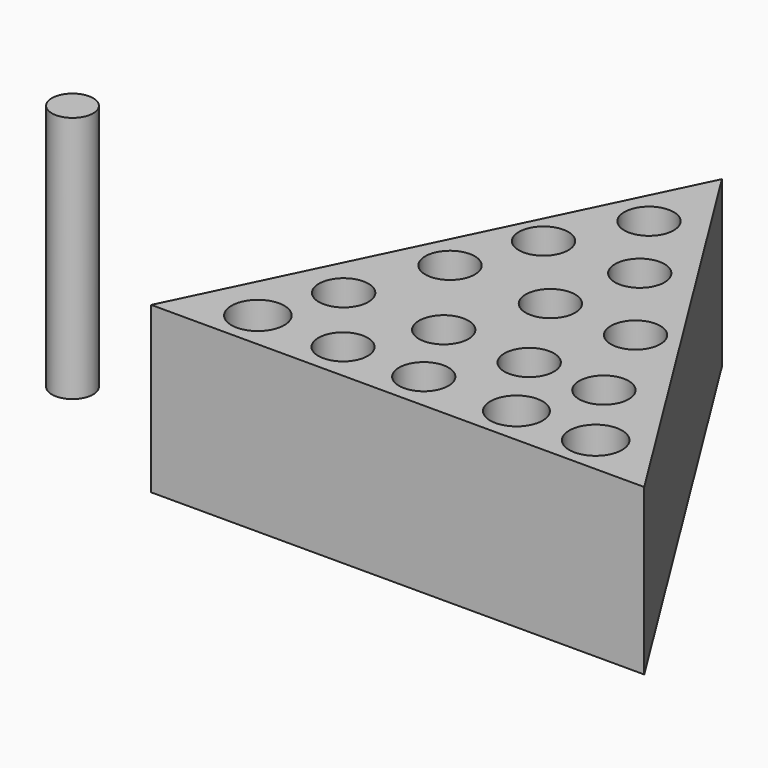
from build123d import *

# Parameters (mm, degrees)
F1_DEPTH = 25.4
F2_R     = 4.067754
F2_R_2   = 3.792102
F2_R_3   = 3.807218
F2_R_4   = 4.025363
F2_R_5   = 4.064
F3_DEPTH = 12.7
F4_R     = 3.81
F5_DEPTH = 12.7
F6_R     = 3.81
F7_DEPTH = 12.7
F8_R     = 3.175
F9_DEPTH = 38.1


with BuildPart() as f1:
    # F0 (on Top) → F1 (new body)
    with BuildSketch(Plane.XY):
        Polygon((-42.763967, 68.399355), (-75.87155, 0), (0, 0), align=None)
    extrude(amount=F1_DEPTH)

    # F2 (on face) → F3 (cut)
    with BuildSketch(Plane.XY.offset(25.4)):
        with Locations((-64.146399, 5.862802)):
            Circle(F2_R)
        with Locations((-51.040348, 5.862802)):
            Circle(F2_R_2)
        with Locations((-38.619891, 5.862802)):
            Circle(F2_R_3)
        with Locations((-24.35587, 5.862802)):
            Circle(F2_R_4)
        with Locations((-12.162311, 5.862802)):
            Circle(F2_R_5)
    extrude(amount=-F3_DEPTH, mode=Mode.SUBTRACT)

    # F4 (on face) → F5 (cut)
    with BuildSketch(Plane.XY.offset(25.4)):
        with Locations((-59.777588, 16.898664)):
            Circle(F4_R)
        with Locations((-44.373363, 16.898664)):
            Circle(F4_R)
        with Locations((-31.038363, 16.66875)):
            Circle(F4_R)
        with Locations((-19.542674, 16.66875)):
            Circle(F4_R)
    extrude(amount=-F5_DEPTH, mode=Mode.SUBTRACT)

    # F6 (on face) → F7 (cut)
    with BuildSketch(Plane.XY.offset(25.4)):
        with Locations((-54.259654, 30.463578)):
            Circle(F6_R)
        with Locations((-38.625516, 30.233664)):
            Circle(F6_R)
        with Locations((-25.520431, 30.233664)):
            Circle(F6_R)
        with Locations((-49.431466, 42.419095)):
            Circle(F6_R)
        with Locations((-35.17681, 43.108836)):
            Circle(F6_R)
        with Locations((-42.763967, 54.374609)):
            Circle(F6_R)
    extrude(amount=-F7_DEPTH, mode=Mode.SUBTRACT)


with BuildPart() as f9:
    # F8 (on Top) → F9 (new body)
    with BuildSketch(Plane.XY):
        with Locations((-100.400403, 15.519182)):
            Circle(F8_R)
    extrude(amount=F9_DEPTH)


solid = Compound([f1.part, f9.part])
